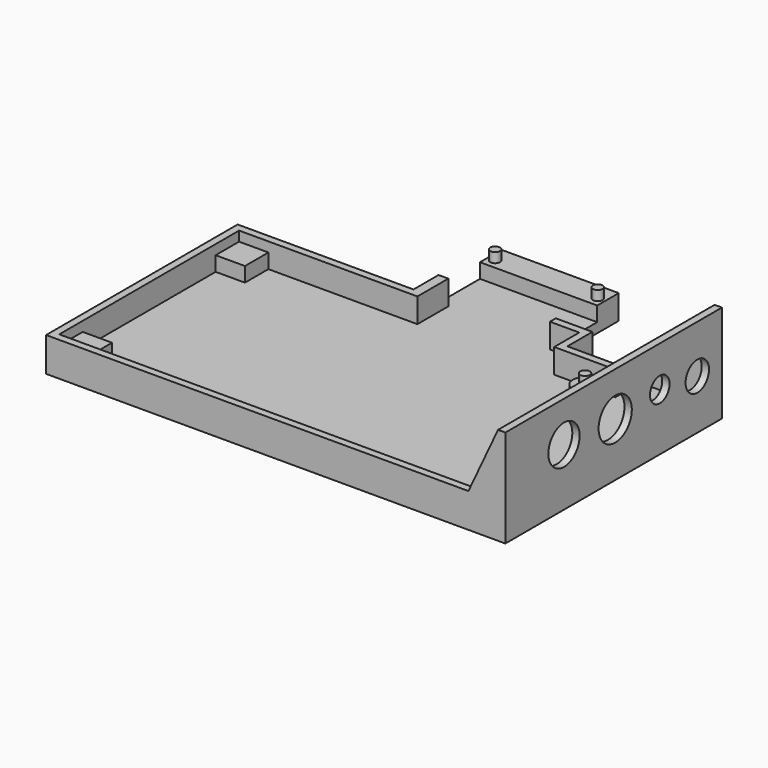
from build123d import *

# Parameters (mm, degrees)
F0_R     = 3.175
F0_W     = 7.62
F0_H     = 7.62
F0_R_2   = 1.27
F0_W_2   = 2.54
F0_H_2   = 13.462
F1_DEPTH = 2.54
F2_DEPTH = 3.81
F3_DEPTH = 6.35
F4_DEPTH = 22.86
F5_R     = 5.08
F5_R_2   = 5.3975
F5_R_3   = 3.175
F5_R_4   = 3.81
F6_DEPTH = 1.905
F8_DEPTH = 1.905
F9_START = -68.453
F9_DEPTH = 1.905


with BuildPart() as f1:
    # F0 (on Top) → F1 (new body)
    with BuildSketch(Plane.XY):
        Polygon((-32.385, 65.278), (-32.385, 57.15), (-16.51, 57.15), (-16.51, 65.278), (1.27, 65.278), (1.27, 67.183), (-18.415, 67.183), (-18.415, 59.055), (-30.48, 59.055), (-30.48, 67.183), (-40.005, 67.183), (-40.005, 65.278), align=None)
        Polygon((-16.51, 57.15), (-32.385, 57.15), (-32.385, 65.278), (-40.005, 65.278), (-43.18, 65.278), (-43.18, 80.645), (-67.945, 80.645), (-67.945, 67.183), (-67.945, 57.15), (-106.68, 57.15), (-106.68, 49.53), (-114.3, 49.53), (-114.3, 6.35), (-106.68, 6.35), (-106.68, -1.27), (1.27, -1.27), (1.27, 65.278), (-16.51, 65.278), align=None)
        with Locations((-5.08, 3.81)):
            Circle(F0_R, mode=Mode.SUBTRACT)
        with Locations((-20.32, 52.07)):
            Circle(F0_R, mode=Mode.SUBTRACT)
        with Locations((-110.49, 53.34)):
            Rectangle(F0_W, F0_H)
        with Locations((-110.49, 2.54)):
            Rectangle(F0_W, F0_H)
        Polygon((-67.945, 80.645), (-43.18, 80.645), (-40.005, 80.645), (-40.005, 87.63), (-70.485, 87.63), (-70.485, 80.645), align=None)
        with Locations((-68.58, 83.185)):
            Circle(F0_R_2, mode=Mode.SUBTRACT)
        with Locations((-41.91, 83.185)):
            Circle(F0_R_2, mode=Mode.SUBTRACT)
        with Locations((-68.58, 83.185)):
            Circle(F0_R_2)
        with Locations((-41.91, 83.185)):
            Circle(F0_R_2)
        with Locations((-20.32, 52.07)):
            Circle(F0_R)
        with Locations((-20.32, 52.07)):
            Circle(F0_R_2, mode=Mode.SUBTRACT)
        with Locations((-20.32, 52.07)):
            Circle(F0_R_2)
        with Locations((-5.08, 3.81)):
            Circle(F0_R)
        with Locations((-5.08, 3.81)):
            Circle(F0_R_2, mode=Mode.SUBTRACT)
        with Locations((-5.08, 3.81)):
            Circle(F0_R_2)
        Polygon((1.27, -3.175), (1.27, -1.27), (-106.68, -1.27), (-114.3, -1.27), (-114.3, 6.35), (-114.3, 49.53), (-114.3, 57.15), (-106.68, 57.15), (-67.945, 57.15), (-67.945, 67.183), (-70.485, 67.183), (-70.485, 59.055), (-116.205, 59.055), (-116.205, -3.175), align=None)
        Polygon((1.27, 67.183), (1.27, 65.278), (1.27, -1.27), (1.27, -3.175), (3.175, -3.175), (3.175, 67.183), align=None)
        with Locations((-69.215, 73.914)):
            Rectangle(F0_W_2, F0_H_2)
        Polygon((-43.18, 65.278), (-40.005, 65.278), (-40.005, 67.183), (-40.005, 80.645), (-43.18, 80.645), align=None)
    extrude(amount=-F1_DEPTH)

    # F0 (on Top) → F2 (join)
    with BuildSketch(Plane.XY):
        Polygon((-67.945, 80.645), (-43.18, 80.645), (-40.005, 80.645), (-40.005, 87.63), (-70.485, 87.63), (-70.485, 80.645), align=None)
        with Locations((-68.58, 83.185)):
            Circle(F0_R_2, mode=Mode.SUBTRACT)
        with Locations((-41.91, 83.185)):
            Circle(F0_R_2, mode=Mode.SUBTRACT)
        with Locations((-110.49, 53.34)):
            Rectangle(F0_W, F0_H)
        with Locations((-110.49, 2.54)):
            Rectangle(F0_W, F0_H)
        with Locations((-20.32, 52.07)):
            Circle(F0_R)
        with Locations((-20.32, 52.07)):
            Circle(F0_R_2, mode=Mode.SUBTRACT)
        with Locations((-5.08, 3.81)):
            Circle(F0_R)
        with Locations((-5.08, 3.81)):
            Circle(F0_R_2, mode=Mode.SUBTRACT)
        with Locations((-68.58, 83.185)):
            Circle(F0_R_2)
        with Locations((-41.91, 83.185)):
            Circle(F0_R_2)
        with Locations((-20.32, 52.07)):
            Circle(F0_R_2)
        with Locations((-5.08, 3.81)):
            Circle(F0_R_2)
    extrude(amount=F2_DEPTH)

    # F0 (on Top) → F3 (join)
    with BuildSketch(Plane.XY):
        with Locations((-68.58, 83.185)):
            Circle(F0_R_2)
        with Locations((-41.91, 83.185)):
            Circle(F0_R_2)
        with Locations((-20.32, 52.07)):
            Circle(F0_R_2)
        with Locations((-5.08, 3.81)):
            Circle(F0_R_2)
        Polygon((1.27, -3.175), (1.27, -1.27), (-106.68, -1.27), (-114.3, -1.27), (-114.3, 6.35), (-114.3, 49.53), (-114.3, 57.15), (-106.68, 57.15), (-67.945, 57.15), (-67.945, 67.183), (-70.485, 67.183), (-70.485, 59.055), (-116.205, 59.055), (-116.205, -3.175), align=None)
        Polygon((-32.385, 65.278), (-32.385, 57.15), (-16.51, 57.15), (-16.51, 65.278), (1.27, 65.278), (1.27, 67.183), (-18.415, 67.183), (-18.415, 59.055), (-30.48, 59.055), (-30.48, 67.183), (-40.005, 67.183), (-40.005, 65.278), align=None)
    extrude(amount=F3_DEPTH)

    # F0 (on Top) → F4 (join)
    with BuildSketch(Plane.XY):
        Polygon((1.27, 67.183), (1.27, 65.278), (1.27, -1.27), (1.27, -3.175), (3.175, -3.175), (3.175, 67.183), align=None)
    extrude(amount=F4_DEPTH)

    # F5 (on face) → F6 (cut, through all)
    with BuildSketch(Plane.YZ.offset(3.175)):
        with Locations((15.875, 12.319)):
            Circle(F5_R)
        with Locations((32.512, 11.43)):
            Circle(F5_R_2)
        with Locations((46.99, 12.319)):
            Circle(F5_R_3)
        with Locations((59.182, 10.414)):
            Circle(F5_R_4)
    extrude(amount=-F6_DEPTH, mode=Mode.SUBTRACT)

    # F7 (on face) → F8 (join, through all)
    with BuildSketch(Plane(origin=(0, 67.183, 0), x_dir=(-1, 0, 0), z_dir=(0, 1, 0))):
        Polygon((6.4287394361, 6.35), (-1.27, 22.86), (-1.27, 6.35), align=None)
    extrude(amount=-F8_DEPTH)

    # F7 (on face) → F9 (join)
    with BuildSketch(Plane(origin=(0, 67.183, 0), x_dir=(-1, 0, 0), z_dir=(0, 1, 0)).offset(F9_START)):
        Polygon((6.4287394361, 6.35), (-1.27, 22.86), (-1.27, 6.35), align=None)
    extrude(amount=-F9_DEPTH)


solid = f1.part
